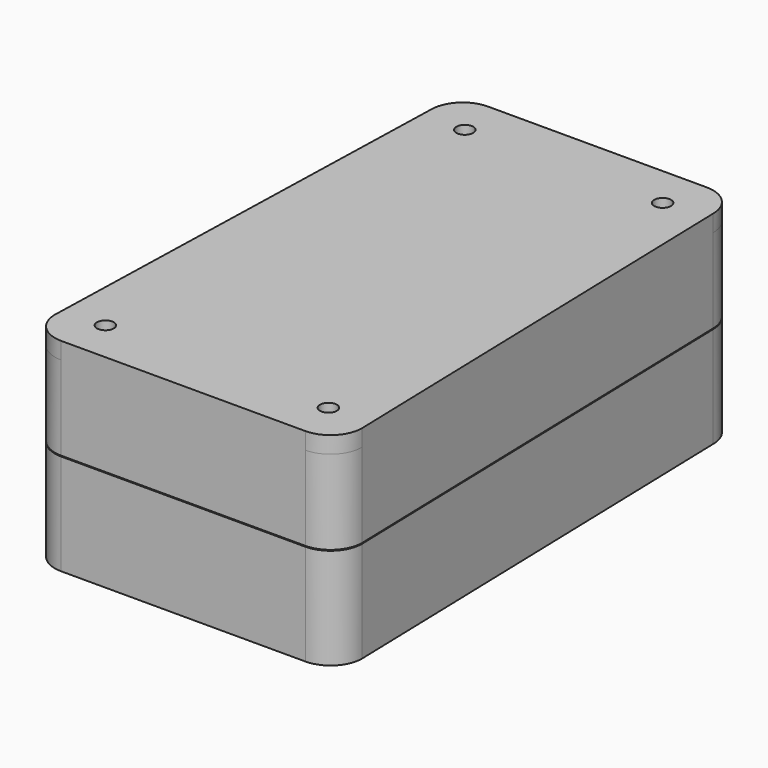
from build123d import *

# Parameters (mm, degrees)
PAD_DEPTH       = 4
SKETCH006_R     = 2
POCKET_DEPTH    = 4
PAD001_DEPTH    = 4
SKETCH007_R     = 3.5
SKETCH007_R_2   = 2
PAD002_DEPTH    = 23.5
SKETCH008_R     = 3.5
SKETCH008_R_2   = 2.75
POCKET001_DEPTH = 2


with BuildPart() as topshell:
    # AdditivePipe: sweep along a path in Sketch
    with BuildLine(Plane.XY) as additivepipe_path:
        Line((0, -60), (-29, -60))
        ThreePointArc((-29, -60), (-33.242641, -58.242641), (-35, -54))
        Line((-35, -54), (-32, 54))
        ThreePointArc((-32, 54), (-30.242641, 58.242641), (-26, 60))
        Line((-26, 60), (0, 60))
    # Sketch001 → AdditivePipe (sweep)
    with BuildSketch(Plane.XZ):
        Polygon((-35, 0), (-35, 20), (-29, 20), (-29, 1.5), (-31, 1.5), (-31, 3.5), (-33, 3.5), (-33, 0), align=None)
    additivepipe = sweep(path=additivepipe_path.line)

    # Mirrored: AdditivePipe across Sketch001 V_Axis
    add(additivepipe.mirror(Plane(origin=(0, 0, 0), x_dir=(0, -1, 0), z_dir=(1, 0, 0))))

    # Sketch002 (on Face24 of Mirrored) → Pad (new body)
    with BuildSketch(Plane(origin=(0, 0, 20), x_dir=(-1, 0, 0), z_dir=(0, 0, 1))):
        with BuildLine():
            Line((-33.5, -54), (-36.5, 54))
            ThreePointArc((-29, 61.5), (-34.303301, 59.303301), (-36.5, 54))
            Line((-29, 61.5), (29, 61.5))
            ThreePointArc((36.5, 54), (34.303301, 59.303301), (29, 61.5))
            Line((36.5, 54), (33.5, -54))
            ThreePointArc((26, -61.5), (31.303301, -59.303301), (33.5, -54))
            Line((26, -61.5), (-26, -61.5))
            ThreePointArc((-33.5, -54), (-31.303301, -59.303301), (-26, -61.5))
        make_face()
    extrude(amount=PAD_DEPTH)

    # Sketch006 (on Face12 of Pad) → Pocket (cut)
    with BuildSketch(Plane(origin=(0, 0, 24), x_dir=(-1, 0, 0), z_dir=(0, 0, 1))):
        with Locations((-23.5, -51.5)):
            Circle(SKETCH006_R)
        with Locations((-26.5, 51.5)):
            Circle(SKETCH006_R)
    pocket = extrude(amount=-POCKET_DEPTH, mode=Mode.SUBTRACT)

    # Mirrored001: Pocket across Sketch006 V_Axis
    add(pocket.mirror(Plane(origin=(0, 0, 24), x_dir=(0, 0, 1), z_dir=(-1, 0, 0))), mode=Mode.SUBTRACT)


with BuildPart() as bottomshell:
    # AdditivePipe001: sweep along a path in Sketch003
    with BuildLine(Plane.XY) as additivepipe001_path:
        Line((-36.5, -54), (-33.5, 54))
        ThreePointArc((-33.5, 54), (-31.303301, 59.303301), (-26, 61.5))
        Line((-26, 61.5), (26, 61.5))
        ThreePointArc((26, 61.5), (31.303301, 59.303301), (33.5, 54))
        Line((33.5, 54), (36.5, -54))
        ThreePointArc((36.5, -54), (34.303301, -59.303301), (29, -61.5))
        Line((29, -61.5), (-29, -61.5))
        ThreePointArc((-29, -61.5), (-34.303301, -59.303301), (-36.5, -54))
    # Sketch004 → AdditivePipe001 (sweep)
    with BuildSketch(Plane.YZ):
        Polygon((-61.5, -0.2), (-59.3, -0.2), (-59.3, 3.3), (-57.7, 3.3), (-57.7, 1.3), (-55.5, 1.3), (-55.5, -20.2), (-61.5, -20.2), align=None)
    sweep(path=additivepipe001_path.line)

    # Sketch005 (on Face55 of AdditivePipe001) → Pad001 (new body)
    with BuildSketch(Plane.YX.offset(20.2)):
        with BuildLine():
            Line((-54, 36.5), (54, 33.5))
            ThreePointArc((61.5, 26), (59.303301, 31.303301), (54, 33.5))
            Line((61.5, 26), (61.5, -26))
            ThreePointArc((54, -33.5), (59.303301, -31.303301), (61.5, -26))
            Line((54, -33.5), (-54, -36.5))
            ThreePointArc((-61.5, -29), (-59.303301, -34.303301), (-54, -36.5))
            Line((-61.5, -29), (-61.5, 29))
            ThreePointArc((-54, 36.5), (-59.303301, 34.303301), (-61.5, 29))
        make_face()
    extrude(amount=PAD001_DEPTH)

    # Sketch007 (on Face54 of Pad001) → Pad002 (join)
    with BuildSketch(Plane(origin=(0, 0, -20.2), x_dir=(0, -1, 0), z_dir=(0, 0, 1))):
        with Locations((-51.5, 23.5)):
            Circle(SKETCH007_R)
        with Locations((-51.5, 23.5)):
            Circle(SKETCH007_R_2, mode=Mode.SUBTRACT)
        with Locations((51.5, 26.5)):
            Circle(SKETCH007_R)
        with Locations((51.5, 26.5)):
            Circle(SKETCH007_R_2, mode=Mode.SUBTRACT)
    pad002 = extrude(amount=PAD002_DEPTH)

    # Mirrored002: Pad002 across YZ
    add(pad002.mirror(Plane.YZ))

    # Sketch008 (on Face74 of Mirrored002) → Pocket001 (cut)
    with BuildSketch(Plane(origin=(0, 0, 3.3), x_dir=(0, -1, 0), z_dir=(0, 0, 1))):
        with Locations((-51.5, 23.5)):
            Circle(SKETCH008_R)
        with Locations((-51.5, 23.5)):
            Circle(SKETCH008_R_2, mode=Mode.SUBTRACT)
        with Locations((51.5, 26.5)):
            Circle(SKETCH008_R)
        with Locations((51.5, 26.5)):
            Circle(SKETCH008_R_2, mode=Mode.SUBTRACT)
        with Locations((51.5, -26.5)):
            Circle(SKETCH008_R)
        with Locations((51.5, -26.5)):
            Circle(SKETCH008_R_2, mode=Mode.SUBTRACT)
        with Locations((-51.5, -23.5)):
            Circle(SKETCH008_R)
        with Locations((-51.5, -23.5)):
            Circle(SKETCH008_R_2, mode=Mode.SUBTRACT)
    extrude(amount=-POCKET001_DEPTH, mode=Mode.SUBTRACT)


solid = Compound([topshell.part, bottomshell.part])
